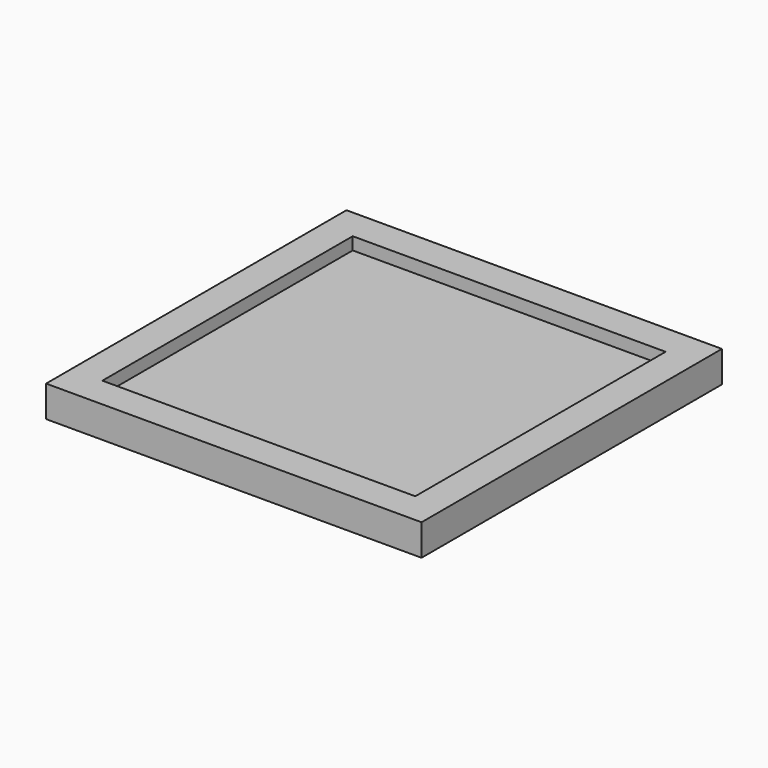
from build123d import *

# Parameters (mm, degrees)
SKETCH_W     = 60
SKETCH_H     = 60
PAD_DEPTH    = 5
SKETCH001_W  = 50
SKETCH001_H  = 50
POCKET_DEPTH = 2


with BuildPart() as part:
    # Sketch → Pad (new body)
    with BuildSketch(Plane.XY):
        with Locations((-9.93406, 8.451485)):
            Rectangle(SKETCH_W, SKETCH_H)
    extrude(amount=PAD_DEPTH)

    # Sketch001 (on Face6 of Pad) → Pocket (cut)
    with BuildSketch(Plane.XY.offset(5)):
        with Locations((-9.93406, 8.451485)):
            Rectangle(SKETCH001_W, SKETCH001_H)
    extrude(amount=-POCKET_DEPTH, mode=Mode.SUBTRACT)


solid = part.part
